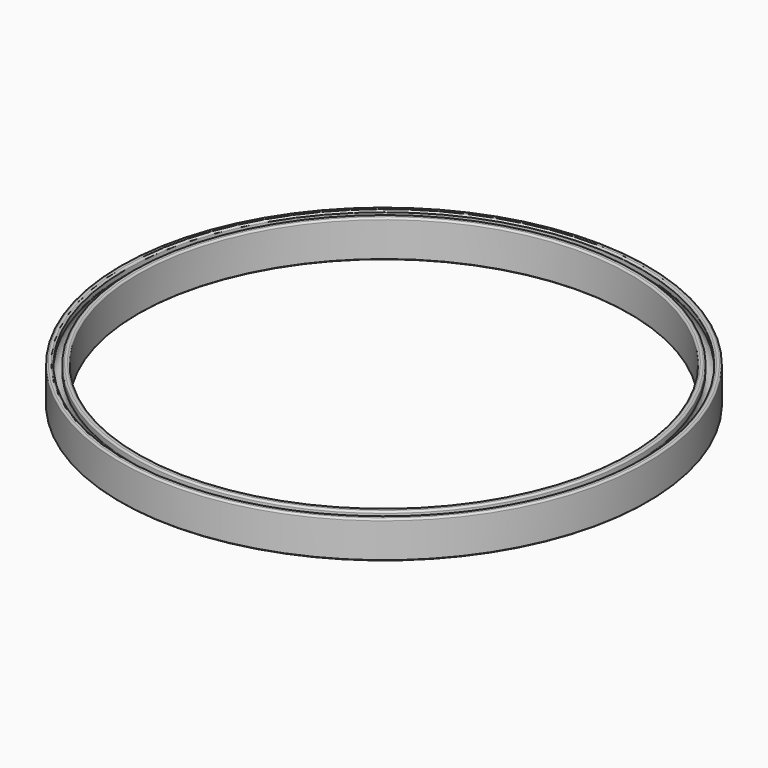
from build123d import *

# Parameters (mm, degrees)
F2_R    = 0.3
F3_SIZE = 0.1


with BuildPart() as f1:
    # F0 (on Front) → F1 (revolve)
    with BuildSketch(Plane.XZ):
        with BuildLine():
            Line((-45.06, 3.15), (-45.06, 1.95))
            Line((-45.06, 1.95), (-44.0917647059, 1.95))
            add(Edge.make_bspline(
                [(-44.06, 1.9714256783), (-44.0759949786, 1.9609983739), (-44.0917647059, 1.95)],
                knots=[3.6040557773, 3.6040557773, 3.6040557773, 3.6315499798, 3.6315499798, 3.6315499798], degree=2, weights=[1, 0.9999055101, 1]))
            Line((-44.06, 1.9714256783), (-44.06, 3.15))
            Line((-44.06, 3.15), (-45.06, 3.15))
        make_face()
        with BuildLine():
            Line((-42.8682352941, 1.95), (-41.9, 1.95))
            Line((-41.9, 1.95), (-41.9, 3.15))
            Line((-41.9, 3.15), (-42.9, 3.15))
            Line((-42.9, 3.15), (-42.9, 1.9714256783))
            add(Edge.make_bspline(
                [(-42.8682352941, 1.95), (-42.8840050214, 1.9609983739), (-42.9, 1.9714256783)],
                knots=[2.6516353273, 2.6516353273, 2.6516353273, 2.6791295299, 2.6791295299, 2.6791295299], degree=2, weights=[1, 0.9999055101, 1]))
        make_face()
        with BuildLine():
            Line((-45.06, -3.15), (-41.9, -3.15))
            Line((-41.9, -3.15), (-41.9, 1.95))
            Line((-41.9, 1.95), (-42.8682352941, 1.95))
            add(Edge.make_bspline(
                [(-43.48, -1.25), (-42.4649906717, -1.25), (-42.2188147498, 0.0376894374), (-41.9726388279, 1.3253788749), (-42.8682352941, 1.95)],
                knots=[0, 0, 0, 1.3258176637, 1.3258176637, 2.6516353273, 2.6516353273, 2.6516353273], degree=2, weights=[1, 0.788205438, 1, 0.788205438, 1]))
            add(Edge.make_bspline(
                [(-44.0917647059, 1.95), (-44.9873611721, 1.3253788749), (-44.7411852502, 0.0376894374), (-44.4950093283, -1.25), (-43.48, -1.25)],
                knots=[3.6315499798, 3.6315499798, 3.6315499798, 4.9573676435, 4.9573676435, 6.2831853072, 6.2831853072, 6.2831853072], degree=2, weights=[1, 0.788205438, 1, 0.788205438, 1]))
            Line((-44.0917647059, 1.95), (-45.06, 1.95))
            Line((-45.06, 1.95), (-45.06, -3.15))
        make_face()
    revolve(axis=Axis((0, 0, -1.3611563481), (0, 0, -1)))

    # F2
    f2_edges = [f1.edges().sort_by_distance(p)[0] for p in [
        (45.06, 0, 3.15),
        (44.06, 0, 3.15),
        (42.9, 0, 3.15),
        (41.9, 0, 3.15),
        (44.06, 0, 1.971426),
        (42.9, 0, 1.971426),
    ]]
    fillet(f2_edges, radius=F2_R)

    # F3
    f3_edges = [f1.edges().sort_by_distance(p)[0] for p in [
        (45.06, 0, -3.15),
        (41.9, 0, -3.15),
    ]]
    chamfer(f3_edges, length=F3_SIZE)


solid = f1.part
